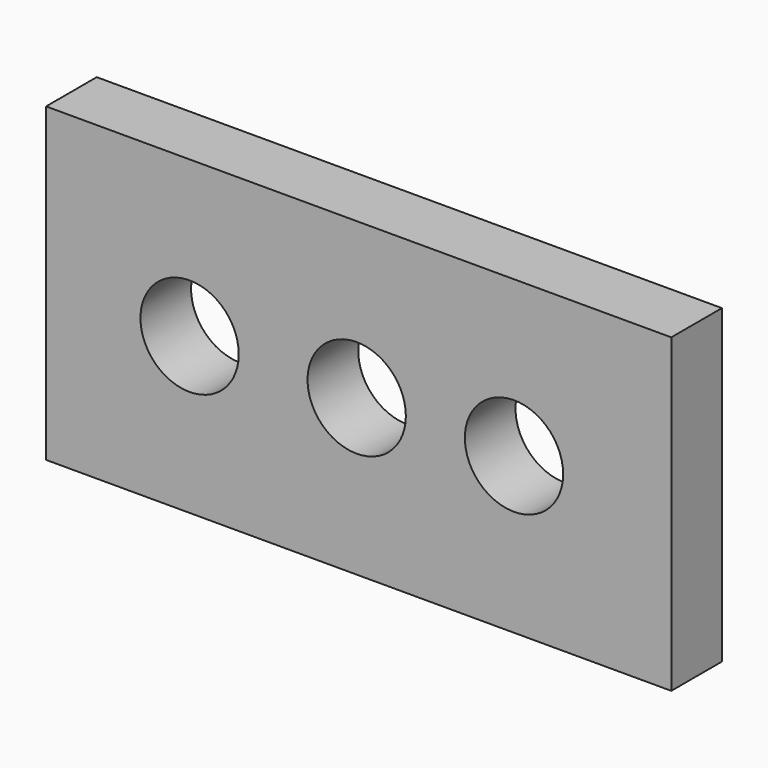
from build123d import *

# Parameters (mm, degrees)
F0_W     = 31.8
F0_H     = 15.83
F0_R     = 2.5
F1_DEPTH = 3.22


with BuildPart() as f1:
    # F0 (on Front) → F1 (new body)
    with BuildSketch(Plane.XZ):
        Rectangle(F0_W, F0_H)
        with Locations((-8.6, 0)):
            Circle(F0_R, mode=Mode.SUBTRACT)
        with Locations((-0.1, 0)):
            Circle(F0_R, mode=Mode.SUBTRACT)
        with Locations((7.9, 0)):
            Circle(F0_R, mode=Mode.SUBTRACT)
    extrude(amount=F1_DEPTH)


solid = f1.part
